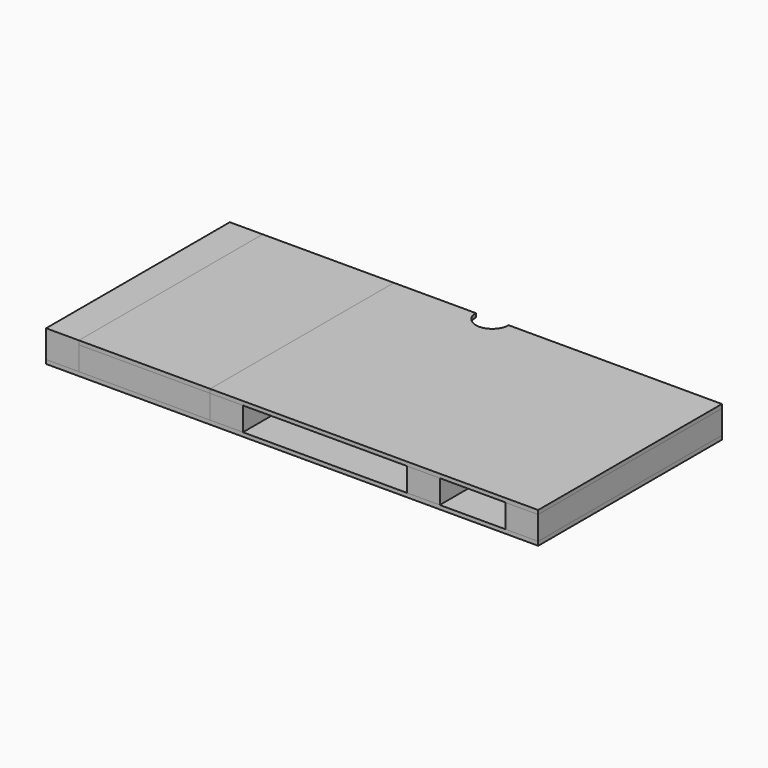
from build123d import *

# Parameters (mm, degrees)
F0_W      = 1500
F0_H      = 700
F1_DEPTH  = 12
F2_W      = 100
F2_H      = 700
F3_DEPTH  = 84
F4_W      = 400
F4_H      = 100
F5_DEPTH  = 72
F6_W      = 400
F6_H      = 100
F7_DEPTH  = 72
F8_W      = 100
F8_H      = 700
F9_DEPTH  = 72
F10_W     = 100
F10_H     = 700
F11_DEPTH = 72
F12_W     = 100
F12_H     = 400
F13_DEPTH = 72
F14_W     = 500
F14_H     = 100
F15_DEPTH = 72
F16_W     = 1000
F16_H     = 700
F17_DEPTH = 12
F18_W     = 400
F18_H     = 700
F19_DEPTH = 12
F21_DEPTH = 96.001
F23_DEPTH = 12.001


with BuildPart() as f1:
    # F0 (on Top) → F1 (new body)
    with BuildSketch(Plane.XY):
        with Locations((750, -350)):
            Rectangle(F0_W, F0_H)
    extrude(amount=F1_DEPTH)


with BuildPart() as f3:
    # F2 (on face) → F3 (new body)
    with BuildSketch(Plane.XY.offset(12)):
        with Locations((50, -350)):
            Rectangle(F2_W, F2_H)
    extrude(amount=F3_DEPTH)


with BuildPart() as f5:
    # F4 (on face) → F5 (new body)
    with BuildSketch(Plane.XY.offset(12)):
        with Locations((300, -50)):
            Rectangle(F4_W, F4_H)
    extrude(amount=F5_DEPTH)


with BuildPart() as f7:
    # F6 (on face) → F7 (new body)
    with BuildSketch(Plane.XY.offset(12)):
        with Locations((300, -650)):
            Rectangle(F6_W, F6_H)
    extrude(amount=F7_DEPTH)


with BuildPart() as f9:
    # F8 (on face) → F9 (new body)
    with BuildSketch(Plane.XY.offset(12)):
        with Locations((1450, -350)):
            Rectangle(F8_W, F8_H)
    extrude(amount=F9_DEPTH)


with BuildPart() as f11:
    # F10 (on face) → F11 (new body)
    with BuildSketch(Plane.XY.offset(12)):
        with Locations((1150, -350)):
            Rectangle(F10_W, F10_H)
    extrude(amount=F11_DEPTH)


with BuildPart() as f13:
    # F12 (on face) → F13 (new body)
    with BuildSketch(Plane.XY.offset(12)):
        with Locations((550, -500)):
            Rectangle(F12_W, F12_H)
    extrude(amount=F13_DEPTH)


with BuildPart() as f15:
    # F14 (on face) → F15 (new body)
    with BuildSketch(Plane.XY.offset(12)):
        with Locations((850, -350)):
            Rectangle(F14_W, F14_H)
    extrude(amount=F15_DEPTH)


with BuildPart() as f15b:
    # F14 (on face) → F15, piece 2 (new body)
    with BuildSketch(Plane.XY.offset(12)):
        with Locations((850, -100)):
            Rectangle(F14_W, F14_H)
    extrude(amount=F15_DEPTH)


with BuildPart() as f17:
    # F16 (on face) → F17 (new body)
    with BuildSketch(Plane.XY.offset(84)):
        with Locations((1000, -350)):
            Rectangle(F16_W, F16_H)
    extrude(amount=F17_DEPTH)


with BuildPart() as f19:
    # F18 (on face) → F19 (new body)
    with BuildSketch(Plane.XY.offset(84)):
        with Locations((300, -350)):
            Rectangle(F18_W, F18_H)
    extrude(amount=F19_DEPTH)


with BuildPart() as f21_tool:
    # F20 (on face) → F21 (new body, through all)
    with BuildSketch(Plane.XY.offset(96)):
        with BuildLine():
            Line((850, 0), (750, 0))
            ThreePointArc((750, 0), (800, -50), (850, 0))
        make_face()
    extrude(amount=-F21_DEPTH)


with BuildPart() as f1_1:
    add(f1.part)

    # F21: cut by f21_tool
    add(f21_tool.part, mode=Mode.SUBTRACT)

    # F22 (on face) → F23 (cut, through all)
    with BuildSketch(Plane.XY.offset(12)):
        with BuildLine():
            Line((850, 0), (750, 0))
            ThreePointArc((750, 0), (800, -50), (850, 0))
        make_face()
    extrude(amount=-F23_DEPTH, mode=Mode.SUBTRACT)


with BuildPart() as f17_1:
    add(f17.part)

    # F21: cut by f21_tool
    add(f21_tool.part, mode=Mode.SUBTRACT)


solid = Compound([f3.part, f5.part, f7.part, f9.part, f11.part, f13.part, f15.part, f15b.part, f19.part, f1_1.part, f17_1.part])
